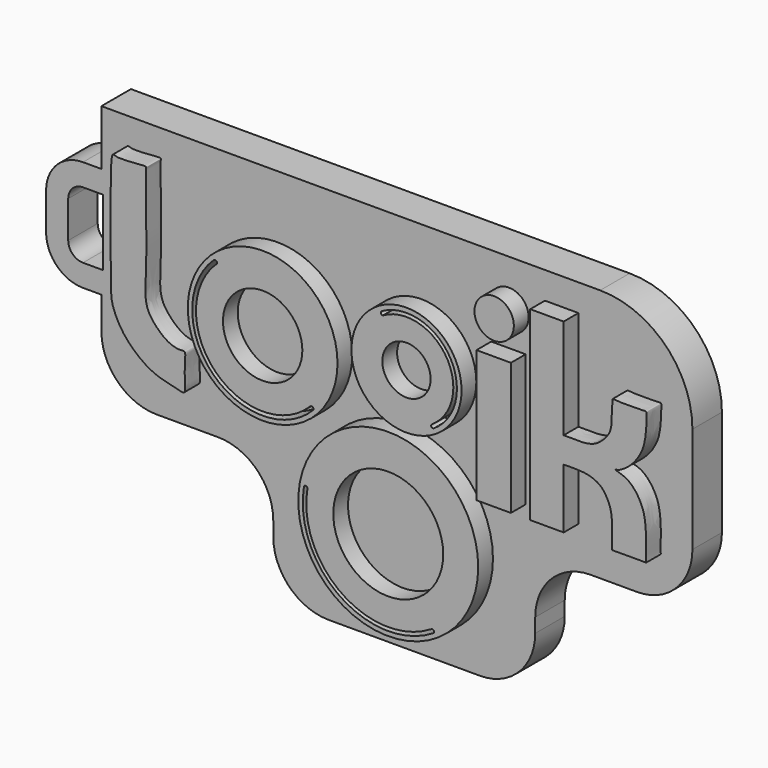
from build123d import *

# Parameters (mm, degrees)
F0_W     = 44.9469949032
F0_H     = 30
F1_DEPTH = 2
F2_W     = 1.8651690334
F2_H     = 7.1670114994
F2_R     = 1.067315765
F2_R_2   = 4.0581094523
F2_R_3   = 2.1518414097
F2_R_4   = 2.9864854467
F2_R_5   = 1.3093105905
F2_R_6   = 4.8775478885
F2_R_7   = 2.980164815
F3_DEPTH = 1
F4_W     = 57.7562209219
F4_H     = 35.8293848112
F5_DEPTH = 25
F7_DEPTH = 2
F9_DEPTH = 25


with BuildPart() as f1:
    # F0 (on Front) → F1 (new body)
    with BuildSketch(Plane.XZ):
        with Locations((7.0486348122, 8.3702504635)):
            Rectangle(F0_W, F0_H)
    extrude(amount=F1_DEPTH)

    # F2 (on face) → F3 (join)
    with BuildSketch(Plane.XZ.offset(2)):
        with Locations((9.9003119394, 11.6388527676)):
            Rectangle(F2_W, F2_H)
        with BuildLine():
            Line((13.694524765, 18.1221477687), (11.88045647, 18.1221477687))
            Line((11.88045647, 18.1221477687), (11.88045647, 8.0553470179))
            Line((11.88045647, 8.0553470179), (13.694524765, 8.0553470179))
            Line((13.694524765, 8.0553470179), (13.694524765, 11.2943472341))
            add(Edge.make_bspline(
                [(13.694524765, 12.6947425306), (13.8922622837, 12.6892612345), (14.3186772236, 12.6774409863), (15.1851700358, 12.698923905), (15.7203585152, 13.0283820708), (16.2478201859, 13.6027233466), (16.3115081909, 14.2578981166), (16.3093501538, 15.0269017308), (16.3695826075, 15.1707792062), (16.3158211879, 15.3202838057), (16.5480700556, 15.2485546915), (18.020772997, 15.2742221693), (18.1848235853, 15.2960336524), (18.197642655, 15.0802001649), (18.1651257533, 13.9820863427), (17.9094222924, 13.1386706467), (17.2713200103, 12.3088393669), (16.635547389, 11.9616905242), (16.4355119122, 11.9877272515), (16.6383577635, 11.8995242605), (17.0806802995, 11.7887847234), (17.5892396619, 11.3616944064), (18.0450740407, 10.5721746334), (18.1537878107, 9.712578281), (18.174578153, 8.9589996658), (18.1357866986, 8.1727128507), (18.1743463955, 8.0517775535), (18.0669540979, 8.0853657917), (16.4302617281, 8.086354645), (16.3129341368, 8.0495532269), (16.3347946696, 8.1951871638), (16.338832697, 9.2518740152), (16.2725591156, 9.985299174), (16.0545848736, 10.4686853224), (15.783796672, 10.902012743), (15.2731276001, 11.1934634572), (14.6409976969, 11.3156289767), (14.030798113, 11.3019084464), (13.694524765, 11.2943472341)],
                knots=[0, 0, 0, 0, 0.0303489992, 0.065446693, 0.0956984092, 0.1282771923, 0.1600386374, 0.1929988377, 0.2079136771, 0.2198484029, 0.2357126949, 0.2829738732, 0.2967364951, 0.3116513021, 0.3513476439, 0.3885382702, 0.4276905406, 0.4597564527, 0.4716911848, 0.4854775166, 0.5116829343, 0.5426776435, 0.5789678787, 0.6142249545, 0.648890536, 0.6822419151, 0.6928145557, 0.7033609953, 0.7528278233, 0.7643808218, 0.7759337613, 0.815111781, 0.8493969595, 0.8764755218, 0.9034080064, 0.9320143506, 0.9625339601, 1, 1, 1, 1], degree=3))
            Line((13.694524765, 12.6947425306), (13.694524765, 18.1221477687))
        make_face()
        with Locations((9.9255237728, 17.0428361744)):
            Circle(F2_R)
        with Locations((-2.6248428039, 12.1410582215)):
            Circle(F2_R_2)
        with BuildLine():
            ThreePointArc((0.1385901968, 9.5032357946), (-5.3173653139, 9.4308937177), (-5.2806562744, 14.8872053251))
            ThreePointArc((-5.2806562744, 14.8872053251), (-5.1127319183, 14.8651061977), (-5.1722559147, 14.7065380588))
            ThreePointArc((-5.1722559147, 14.7065380588), (-5.1782537396, 9.5815479272), (-0.0532925045, 9.5997732295))
            ThreePointArc((-0.0532925045, 9.5997732295), (0.0777480074, 9.621269385), (0.1385901968, 9.5032357946))
        make_face(mode=Mode.SUBTRACT)
        with Locations((-2.6248428039, 12.1410582215)):
            Circle(F2_R_3, mode=Mode.SUBTRACT)
        with Locations((5.1727513783, 13.0314249545)):
            Circle(F2_R_4)
        with Locations((5.1727513783, 13.0314249545)):
            Circle(F2_R_5, mode=Mode.SUBTRACT)
        with BuildLine():
            ThreePointArc((6.5525587239, 10.8995898137), (7.3346676268, 14.3636064411), (3.8888512645, 15.2223585173))
            ThreePointArc((3.8888512645, 15.2223585173), (3.7834563018, 15.2951767586), (3.8313630503, 15.4139855877))
            ThreePointArc((3.8313630503, 15.4139855877), (7.5133292064, 14.4447944205), (6.6567892055, 10.7350039251))
            ThreePointArc((6.6567892055, 10.7350039251), (6.5231912274, 10.765694724), (6.5525587239, 10.8995898137))
        make_face(mode=Mode.SUBTRACT)
        with Locations((4.1833925061, 4.8884055577)):
            Circle(F2_R_6)
        with BuildLine():
            ThreePointArc((-0.3929379745, 5.618899595), (-0.2962548824, 5.7330301584), (-0.1995717903, 5.618899595))
            ThreePointArc((-0.1995717903, 5.618899595), (1.7058697, 1.199790871), (6.5173852163, 1.1073375088))
            ThreePointArc((6.5173852163, 1.1073375088), (6.6420365244, 1.0904304538), (6.6496168589, 0.9648663839))
            ThreePointArc((6.6496168589, 0.9648663839), (1.6283693653, 1.0221051353), (-0.3929379745, 5.618899595))
        make_face(mode=Mode.SUBTRACT)
        with Locations((4.1833925061, 4.8884055577)):
            Circle(F2_R_7, mode=Mode.SUBTRACT)
        with BuildLine():
            add(Edge.make_bspline(
                [(-10.7932484683, 18.0388610897), (-10.9190678486, 17.4266640194), (-10.8443808651, 11.9331536963), (-10.8411514679, 11.0411914224), (-10.2649185813, 9.7432609879), (-9.0641718015, 8.6708184143), (-8.1302641868, 8.268921607), (-7.2457292345, 8.1073566872), (-6.7212035602, 7.9177950291), (-6.934165694, 9.047142527), (-6.7356445665, 10.08398688), (-7.0839413624, 9.977057832), (-7.7074156288, 10.0848533824), (-8.4495574452, 10.6984587807), (-9.0660107848, 11.5512781245), (-8.9174361668, 13.2161903268), (-8.9305999935, 15.0593214739), (-8.938980308, 16.4240235647), (-8.9853863781, 18.0076776154), (-8.9068434548, 18.174794211), (-9.412976346, 18.1380823461), (-10.4786403729, 18.0437646839), (-10.7215371373, 18.1767474153), (-10.7741661439, 18.1317096082), (-10.7932484683, 18.0388610897)],
                knots=[0, 0, 0, 0, 0.1126542094, 0.1634162886, 0.2153058746, 0.274135507, 0.3213377662, 0.3656178054, 0.3920969507, 0.4383423544, 0.4833050776, 0.5040294511, 0.5402438501, 0.5855515406, 0.6316701317, 0.690829466, 0.7538031213, 0.8112905675, 0.8677556511, 0.8816644063, 0.9116709036, 0.9611756792, 0.9829143638, 1, 1, 1, 1], degree=3))
        make_face()
    extrude(amount=F3_DEPTH)

    # F4 (on face) → F5 (cut)
    with BuildSketch(Plane.XZ.offset(2)):
        with Locations((8.5622230545, 7.9575902782)):
            Rectangle(F4_W, F4_H)
        with BuildLine():
            Line((-12.1662514284, 8.843013525), (-12.1662514284, 19.5869989693))
            Line((-12.1662514284, 19.5869989693), (14.8737699538, 19.5869989693))
            ThreePointArc((14.8737699538, 19.5869989693), (18.4093038598, 18.1225328752), (19.8737699538, 14.5869989693))
            Line((19.8737699538, 14.5869989693), (19.8737699538, 8.843013525))
            ThreePointArc((19.8737699538, 8.843013525), (18.9950902974, 6.7216931814), (16.8737699538, 5.843013525))
            Line((16.8737699538, 5.843013525), (14.3525846973, 5.843013525))
            ThreePointArc((14.3525846973, 5.843013525), (12.2312643537, 4.9643338686), (11.3525846973, 2.843013525))
            Line((11.3525846973, 2.843013525), (11.3525846973, 2.072142025))
            ThreePointArc((11.3525846973, 2.072142025), (10.4739050409, -0.0491783186), (8.3525846973, -0.927857975))
            Line((8.3525846973, -0.927857975), (0.1497307997, -0.927857975))
            ThreePointArc((0.1497307997, -0.927857975), (-1.9715895438, -0.0491783186), (-2.8502692003, 2.072142025))
            Line((-2.8502692003, 2.072142025), (-2.8502692003, 2.843013525))
            ThreePointArc((-2.8502692003, 2.843013525), (-3.7289488567, 4.9643338686), (-5.8502692003, 5.843013525))
            Line((-5.8502692003, 5.843013525), (-9.1662514284, 5.843013525))
            ThreePointArc((-9.1662514284, 5.843013525), (-11.287571772, 6.7216931814), (-12.1662514284, 8.843013525))
        make_face(mode=Mode.SUBTRACT)
    extrude(amount=-F5_DEPTH, mode=Mode.SUBTRACT)

    # F6 (on face) → F7 (join)
    with BuildSketch(Plane.XZ.offset(2)):
        with BuildLine():
            Line((-12.1662514284, 10.5869989693), (-12.1662514284, 16.5869989693))
            Line((-12.1662514284, 16.5869989693), (-13.1662514284, 16.5869989693))
            ThreePointArc((-13.1662514284, 16.5869989693), (-14.5804649908, 16.0012125317), (-15.1662514284, 14.5869989693))
            Line((-15.1662514284, 14.5869989693), (-15.1662514284, 12.5869989693))
            ThreePointArc((-15.1662514284, 12.5869989693), (-14.5804649908, 11.1727854069), (-13.1662514284, 10.5869989693))
            Line((-13.1662514284, 10.5869989693), (-12.1662514284, 10.5869989693))
        make_face()
    extrude(amount=-F7_DEPTH)

    # F8 (on face) → F9 (cut)
    with BuildSketch(Plane.XZ.offset(2)):
        with BuildLine():
            ThreePointArc((-13.9662514284, 12.5869989693), (-13.7319368534, 12.0213135444), (-13.1662514284, 11.7869989693))
            Line((-13.1662514284, 11.7869989693), (-12.0771983638, 11.7869989693))
            Line((-12.0771983638, 11.7869989693), (-12.0771983638, 15.3869989693))
            Line((-12.0771983638, 15.3869989693), (-13.1662514284, 15.3869989693))
            ThreePointArc((-13.1662514284, 15.3869989693), (-13.7319368534, 15.1526843943), (-13.9662514284, 14.5869989693))
            Line((-13.9662514284, 14.5869989693), (-13.9662514284, 12.5869989693))
        make_face()
    extrude(amount=-F9_DEPTH, mode=Mode.SUBTRACT)


solid = f1.part
